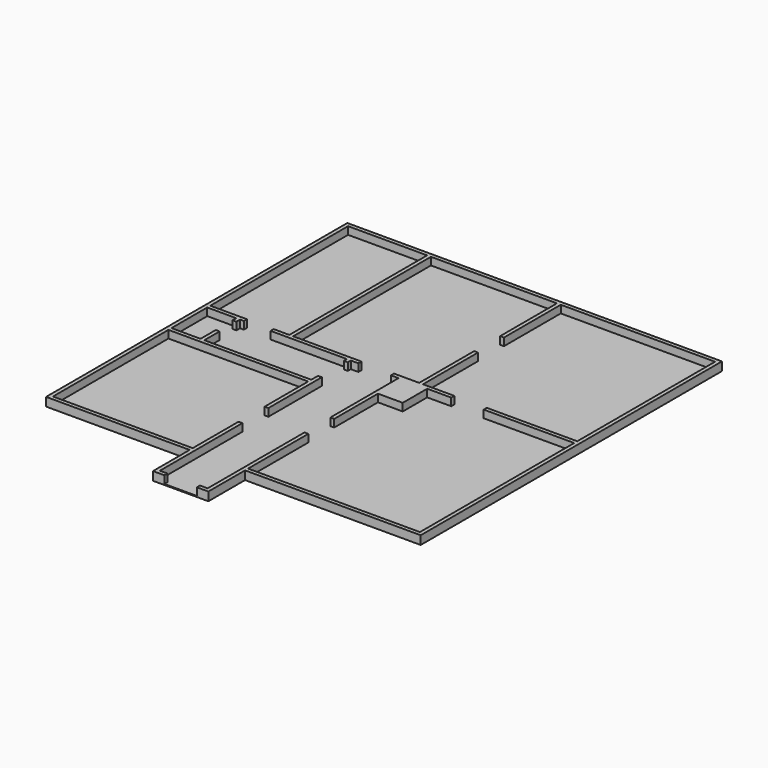
from build123d import *

# Parameters (mm, degrees)
F2_DEPTH = 25
F0_W     = 650
F0_H     = 800
F3_DEPTH = 200


with BuildPart() as f2:
    # F1 (on Top) → F2 (new body)
    with BuildSketch(Plane.XY):
        Polygon((6050, 11060), (-3760, 11060), (-3760, 1200), (0, 1200), (0, 0), (1450, 0), (1450, 1200), (6050, 1200), align=None)
    extrude(amount=-F2_DEPTH)

    # F0 (on Top) → F3 (join)
    with BuildSketch(Plane.XY):
        Polygon((0, 0), (300, 0), (300, 100), (100, 100), (100, 184.210543425), (100, 2800), (0, 2800), (0, 1300), (-3660, 1300), (-3660, 5080), (0, 5080), (0, 3650), (100, 3650), (100, 5400), (0, 5400), (0, 5180), (-2800, 5180), (-2800, 5680), (-2900, 5680), (-2900, 5180), (-3660, 5180), (-3660, 6350), (-2900, 6350), (-2900, 6230), (-2800, 6230), (-2800, 6350), (-2700, 6350), (-2700, 6450), (-3660, 6450), (-3660, 10960), (-1590, 10960), (-1590, 6450), (-2000, 6450), (-2000, 6350), (0, 6350), (0, 6250), (100, 6250), (100, 6350), (300, 6350), (300, 6450), (-1490, 6450), (-1490, 10960), (1810, 10960), (1810, 9100), (1910, 9100), (1910, 10960), (5950, 10960), (5950, 6450), (3580, 6450), (3580, 6350), (5950, 6350), (5950, 1300), (1450, 1300), (1450, 3270), (1350, 3270), (1350, 100), (1150, 100), (1150, 0), (1450, 0), (1450, 1200), (6050, 1200), (6050, 11060), (-3760, 11060), (-3760, 1200), (0, 1200), (0, 184.210543425), align=None)
        Polygon((1150, 6450), (1150, 6350), (1350, 6350), (1350, 4120), (1450, 4120), (1450, 5550), (1450, 6350), (2100, 6350), (2730, 6350), (2730, 6450), (1910, 6450), (1910, 8250), (1810, 8250), (1810, 6450), align=None)
        with Locations((1775, 5950)):
            Rectangle(F0_W, F0_H)
    extrude(amount=F3_DEPTH)


solid = f2.part
